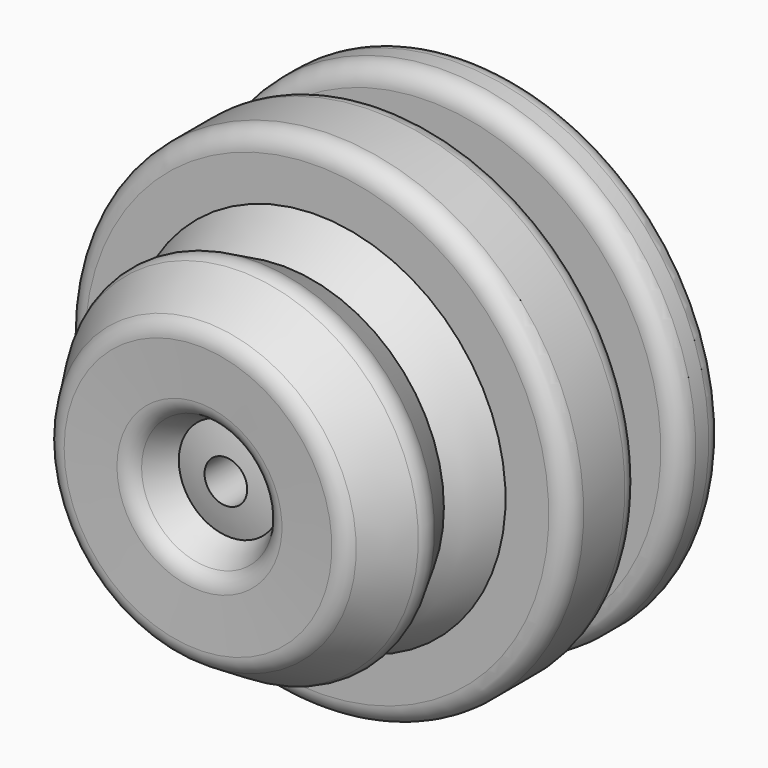
from build123d import *


with BuildPart() as f1:
    # F0 (on Top) → F1 (revolve)
    with BuildSketch(Plane.XY):
        with BuildLine():
            Line((-59.846814, -25.164437), (-48.678365, -25.164437))
            ThreePointArc((-48.678365, -25.164437), (-45.348589, -30.7626), (-41.378086, -35.92612))
            Line((-41.378086, -35.92612), (-46.161032, -44.926286))
            ThreePointArc((-46.161032, -44.926286), (-46.742696, -47.448269), (-45.98544, -49.923202))
            Line((-45.98544, -49.923202), (-38.956515, -61.166355))
            ThreePointArc((-38.956515, -61.166355), (-37.063246, -62.931082), (-34.541264, -63.512746))
            Line((-34.541264, -63.512746), (-21.289945, -63.047095))
            ThreePointArc((-21.289945, -63.047095), (-18.815012, -62.28984), (-17.050285, -60.39657))
            Line((-17.050285, -60.39657), (-13.215539, -53.180651))
            ThreePointArc((-13.215539, -53.180651), (-9.382754, -53.988851), (-5.502027, -54.521186))
            Line((-5.502027, -54.521186), (-4.790188, 38.391896))
            Line((-4.790188, 38.391896), (-9.580377, 38.391896))
            Line((-9.580377, 38.391896), (-9.580377, 50.950224))
            ThreePointArc((-9.580377, 50.950224), (-11.974745, 52.661063), (-14.916749, 52.728765))
            ThreePointArc((-14.916749, 52.728765), (-34.655918, 42.447608), (-48.678365, 25.164437))
            Line((-48.678365, 25.164437), (-59.846814, 25.164437))
            ThreePointArc((-59.846814, 25.164437), (-63.382348, 23.69997), (-64.846814, 20.164437))
            Line((-64.846814, 20.164437), (-64.846814, 15.969114))
            ThreePointArc((-64.846814, 15.969114), (-63.382348, 12.43358), (-59.846814, 10.969114))
            Line((-59.846814, 10.969114), (-33.832973, 10.969114))
            ThreePointArc((-33.832973, 10.969114), (-29.243086, 7.952278), (-30.191972, 2.542291))
            Line((-30.191972, 2.542291), (-32.584716, 0))
            Line((-32.584716, 0), (-37.490183, 1.962186))
            ThreePointArc((-37.490183, 1.962186), (-40.424361, 2.202381), (-42.985083, 0.749865))
            Line((-42.985083, 0.749865), (-47.86667, -4.427577))
            ThreePointArc((-47.86667, -4.427577), (-51.357621, -5.995352), (-54.934681, -4.635461))
            Line((-54.934681, -4.635461), (-57.240267, -2.461624))
            Line((-57.240267, -2.461624), (-58.307326, -2.116303))
            ThreePointArc((-58.307326, -2.116303), (-62.78812, -2.830046), (-64.846814, -6.873401))
            Line((-64.846814, -6.873401), (-64.846814, -20.164437))
            ThreePointArc((-64.846814, -20.164437), (-63.382348, -23.69997), (-59.846814, -25.164437))
        make_face()
    revolve(axis=Axis((0, -5.577279, 0), (0, 1, 0)))


solid = f1.part
